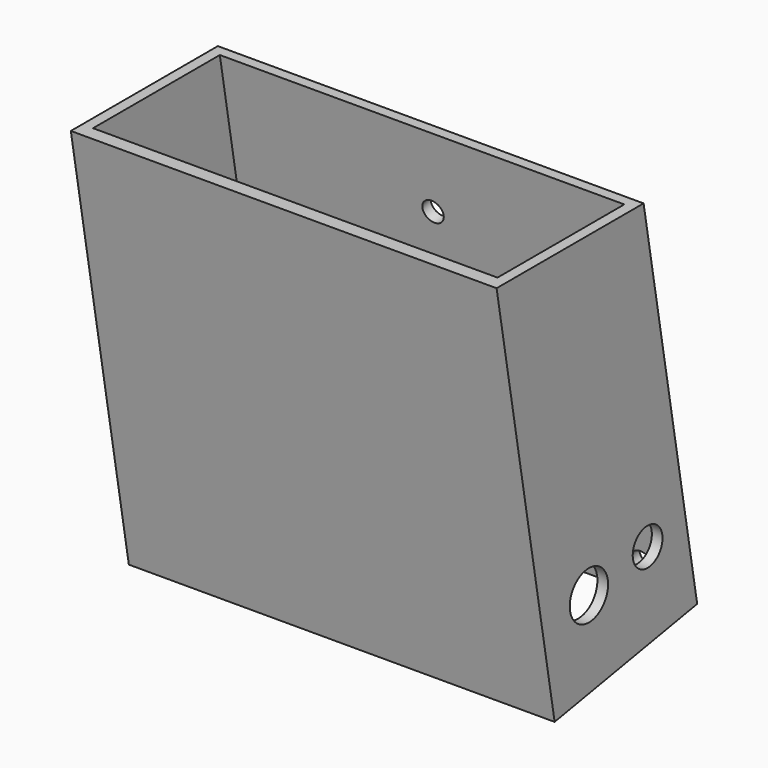
from build123d import *

# Parameters (mm, degrees)
CYLINDER007_R          = 11
CYLINDER007_DEPTH      = 2
CYLINDER012_R          = 2.5
CYLINDER012_DEPTH      = 2
CYLINDER013_R          = 2
CYLINDER013_DEPTH      = 2
CYLINDER014_R          = 3.5
CYLINDER014_DEPTH      = 2
CYLINDER015_R          = 4.5
CYLINDER015_DEPTH      = 2
BOX019_W               = 80
BOX019_H               = 38
BOX019_DEPTH           = 8
BOX019_PLACEMENT_ANGLE = 10
CYLINDER024_R          = 2
CYLINDER024_DEPTH      = 3
CYLINDER025_R          = 2
CYLINDER025_DEPTH      = 2
CYLINDER026_R          = 1.5
CYLINDER026_DEPTH      = 2
CYLINDER027_R          = 1.5
CYLINDER027_DEPTH      = 2
BOX004_W               = 76
BOX004_H               = 30
BOX004_DEPTH           = 78
BOX003_W               = 80
BOX003_H               = 34
BOX003_DEPTH           = 80
CUT012_PLACEMENT_ANGLE = 10


with BuildPart() as basehole:
    # Cylinder007 → Cylinder007 (new body)
    with BuildSketch(Plane(origin=(15, -19, 20), x_dir=(1, 0, 0), z_dir=(0, 0, 1))):
        Circle(CYLINDER007_R)
    extrude(amount=CYLINDER007_DEPTH)


with BuildPart() as volumehole:
    # Cylinder012 → Cylinder012 (new body)
    with BuildSketch(Plane(origin=(62, -20, 20), x_dir=(1, 0, 0), z_dir=(0, 0, 1))):
        Circle(CYLINDER012_R)
    extrude(amount=CYLINDER012_DEPTH)


with BuildPart() as extspeakerhole:
    # Cylinder013 → Cylinder013 (new body)
    with BuildSketch(Plane(origin=(70, 1, -45), x_dir=(1, 0, 0), z_dir=(0, -1, 0))):
        Circle(CYLINDER013_R)
    extrude(amount=CYLINDER013_DEPTH)


with BuildPart() as obj1:
    # Cylinder014 → Cylinder014 (new body)
    with BuildSketch(Plane(origin=(76, -8, -35), x_dir=(0, 0, -1), z_dir=(1, 0, 0))):
        Circle(CYLINDER014_R)
    extrude(amount=CYLINDER014_DEPTH)


with BuildPart() as obj2:
    # Cylinder015 → Cylinder015 (new body)
    with BuildSketch(Plane(origin=(76, -22, -35), x_dir=(0, 0, -1), z_dir=(1, 0, 0))):
        Circle(CYLINDER015_R)
    extrude(amount=CYLINDER015_DEPTH)


with BuildPart() as frontlevel:
    # Box019 → Box019 (new body)
    with BuildSketch(Plane.XY):
        with Locations((40, 19)):
            Rectangle(BOX019_W, BOX019_H)
    extrude(amount=BOX019_DEPTH)


with BuildPart() as frontlevel_1:
    # Box019 placement: moved
    add(frontlevel.part.moved(Location((-2, -36, 28))).rotate(Axis((-2, -36, 28), (-1, 0, 0)), BOX019_PLACEMENT_ANGLE))


with BuildPart() as wirehole002:
    # Cylinder024 → Cylinder024 (new body)
    with BuildSketch(Plane(origin=(38, 1, 7), x_dir=(1, 0, 0), z_dir=(0, -1, 0))):
        Circle(CYLINDER024_R)
    extrude(amount=CYLINDER024_DEPTH)


with BuildPart() as extspeakerhole001:
    # Cylinder025 → Cylinder025 (new body)
    with BuildSketch(Plane(origin=(70, 1, -25), x_dir=(1, 0, 0), z_dir=(0, -1, 0))):
        Circle(CYLINDER025_R)
    extrude(amount=CYLINDER025_DEPTH)


with BuildPart() as extspeakerhole002:
    # Cylinder026 → Cylinder026 (new body)
    with BuildSketch(Plane(origin=(70, 1, -32.5), x_dir=(1, 0, 0), z_dir=(0, -1, 0))):
        Circle(CYLINDER026_R)
    extrude(amount=CYLINDER026_DEPTH)


with BuildPart() as extspeakerhole003:
    # Cylinder027 → Cylinder027 (new body)
    with BuildSketch(Plane(origin=(70, 1, -37.5), x_dir=(1, 0, 0), z_dir=(0, -1, 0))):
        Circle(CYLINDER027_R)
    extrude(amount=CYLINDER027_DEPTH)


with BuildPart() as obj3:
    # Box004 → Box004 (new body)
    with BuildSketch(Plane(origin=(0, -31, -51), x_dir=(1, 0, 0), z_dir=(0, 0, 1))):
        with Locations((38, 15)):
            Rectangle(BOX004_W, BOX004_H)
    extrude(amount=BOX004_DEPTH)

    # Fusion008: union BaseHole, VolumeHole, ExtSpeakerHole, obj1, obj2, FrontLevel, WireHole002, ExtSpeakerHole001, ExtSpeakerHole002, ExtSpeakerHole003
    add(basehole.part)
    add(volumehole.part)
    add(extspeakerhole.part)
    add(obj1.part)
    add(obj2.part)
    add(frontlevel_1.part)
    add(wirehole002.part)
    add(extspeakerhole001.part)
    add(extspeakerhole002.part)
    add(extspeakerhole003.part)


with BuildPart() as base:
    # Box003 → Box003 (new body)
    with BuildSketch(Plane(origin=(-2, -33, -51), x_dir=(1, 0, 0), z_dir=(0, 0, 1))):
        with Locations((40, 17)):
            Rectangle(BOX003_W, BOX003_H)
    extrude(amount=BOX003_DEPTH)

    # Cut012: cut obj3
    add(obj3.part, mode=Mode.SUBTRACT)


with BuildPart() as base_1:
    # Cut012 placement: moved
    add(base.part.rotate(Axis((0, 0, 0), (1, 0, 0)), CUT012_PLACEMENT_ANGLE))


solid = base_1.part
